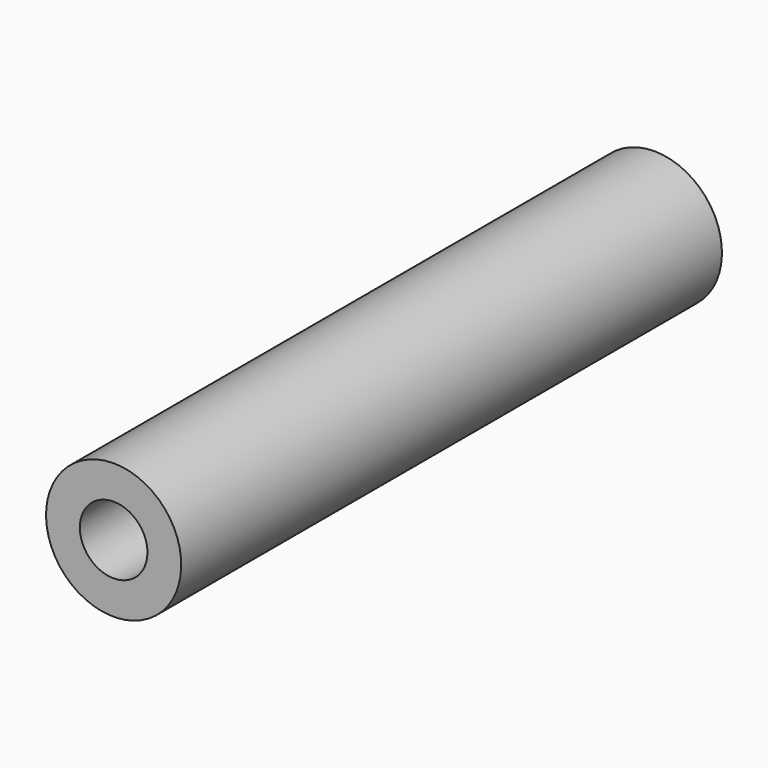
from build123d import *

# Parameters (mm, degrees)
F0_W = 5
F0_H = 5


with BuildPart() as f1:
    # F0 (on Right) → F1 (revolve)
    with BuildSketch(Plane.YZ):
        with Locations((97.5, 2.5)):
            Rectangle(F0_W, F0_H)
        Polygon((0, 10), (0, 5), (95, 5), (100, 5), (100, 10), align=None)
    revolve(axis=Axis((0, 97.5, 0), (0, 1, 0)))


solid = f1.part
